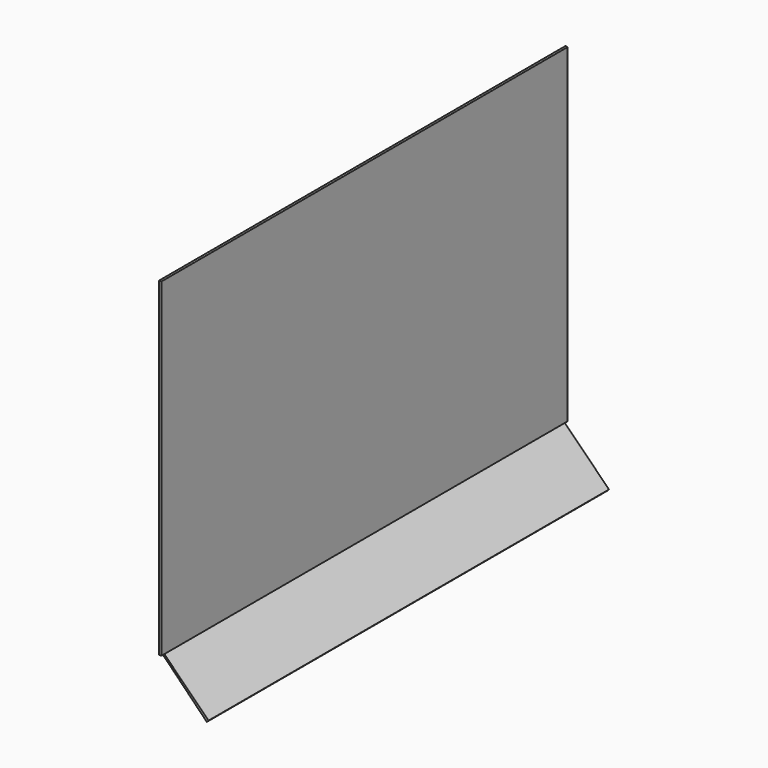
from build123d import *

# Parameters (mm, degrees)
F0_W     = 4
F0_H     = 543
F1_DEPTH = 825
F2_W     = 6
F2_H     = 543
F3_DEPTH = 4


with BuildPart() as f1:
    # F0 (on Front) → F1 (new body)
    with BuildSketch(Plane.XZ):
        with Locations((2, 271.5)):
            Rectangle(F0_W, F0_H)
        Polygon((4, 0), (0, 0), (74.003571, -75.660426), (76.831998, -72.831998), align=None)
    extrude(amount=F1_DEPTH)

    # F2 (on face) → F3 (join)
    with BuildSketch(Plane.YZ.offset(4)):
        with Locations((3, 271.5)):
            Rectangle(F2_W, F2_H)
        with Locations((-828, 271.5)):
            Rectangle(F2_W, F2_H)
    extrude(amount=-F3_DEPTH)


solid = f1.part
